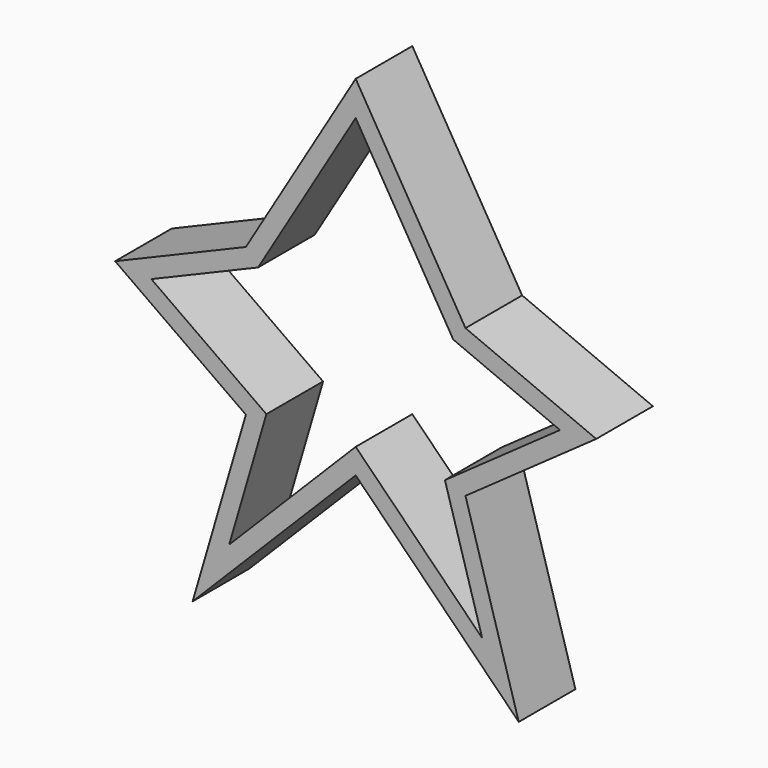
from build123d import *

# Parameters (mm, degrees)
F2_DEPTH = 25.4
F3_DEPTH = 61.637215


with BuildPart() as f2:
    # F0 (on Front) → F2 (new body)
    with BuildSketch(Plane.XZ):
        Polygon((39.387107, 19.750744), (0, 85.669681), (-39.387107, 19.750744), (-86.282223, 0), (-39.387107, -33.203911), (-58.497995, -98.393343), (0, -39.553251), (58.497995, -98.393343), (39.387107, -33.203911), (86.282223, 0), align=None)
    extrude(amount=F2_DEPTH)

    # F1 (on Front) → F3 (cut)
    with BuildSketch(Plane.XZ):
        Polygon((32.018433, -30.640697), (73.290197, -1.41838), (35.003824, 14.706632), (0, 73.289633), (-35.003824, 14.706632), (-73.290197, -1.41838), (-32.018433, -30.640697), (-45.369002, -76.181019), (0, -30.546698), (45.369002, -76.181019), align=None)
    extrude(amount=F3_DEPTH, mode=Mode.SUBTRACT)


solid = f2.part
